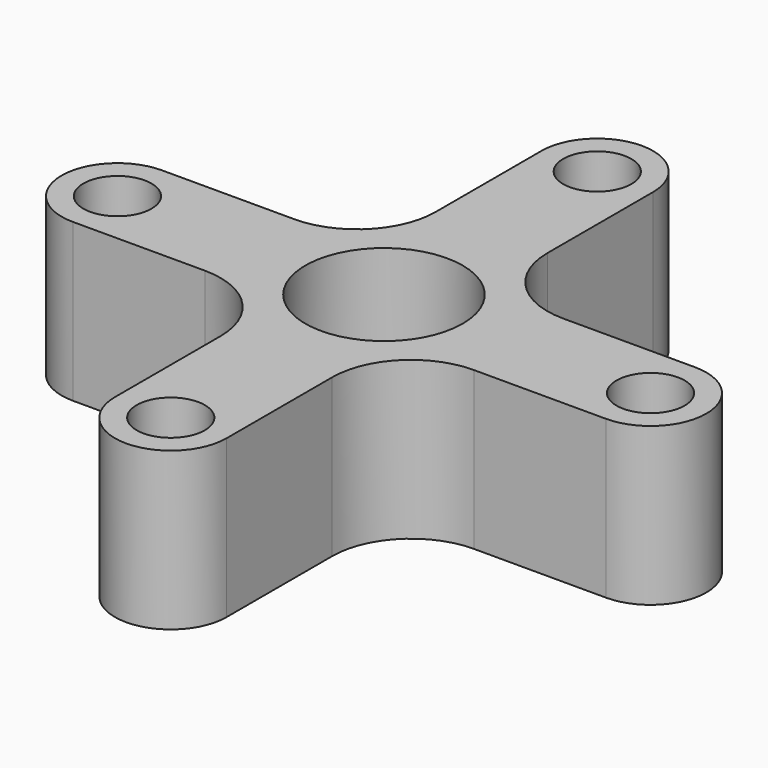
from build123d import *

# Parameters (mm, degrees)
F0_R     = 2.75
F0_R_2   = 6.35
F1_DEPTH = 12.7


with BuildPart() as f1:
    # F0 (on Top) → F1 (new body)
    with BuildSketch(Plane.XY):
        with BuildLine():
            Line((4.5, 10.85), (4.5, 21.5))
            ThreePointArc((4.5, 21.5), (0, 26), (-4.5, 21.5))
            Line((-4.5, 21.5), (-4.5, 10.85))
            ThreePointArc((-4.5, 10.85), (-6.359872, 6.359872), (-10.85, 4.5))
            Line((-10.85, 4.5), (-21.5, 4.5))
            ThreePointArc((-21.5, 4.5), (-26, 0), (-21.5, -4.5))
            Line((-21.5, -4.5), (-10.85, -4.5))
            ThreePointArc((-10.85, -4.5), (-6.359872, -6.359872), (-4.5, -10.85))
            Line((-4.5, -10.85), (-4.5, -21.5))
            ThreePointArc((-4.5, -21.5), (0, -26), (4.5, -21.5))
            Line((4.5, -21.5), (4.5, -10.85))
            ThreePointArc((4.5, -10.85), (6.359872, -6.359872), (10.85, -4.5))
            Line((10.85, -4.5), (21.5, -4.5))
            ThreePointArc((21.5, -4.5), (26, 0), (21.5, 4.5))
            Line((21.5, 4.5), (10.85, 4.5))
            ThreePointArc((10.85, 4.5), (6.359872, 6.359872), (4.5, 10.85))
        make_face()
        with Locations((0, -21.5)):
            Circle(F0_R, mode=Mode.SUBTRACT)
        with Locations((-21.5, 0)):
            Circle(F0_R, mode=Mode.SUBTRACT)
        Circle(F0_R_2, mode=Mode.SUBTRACT)
        with Locations((21.5, 0)):
            Circle(F0_R, mode=Mode.SUBTRACT)
        with Locations((0, 21.5)):
            Circle(F0_R, mode=Mode.SUBTRACT)
    extrude(amount=F1_DEPTH)


solid = f1.part
